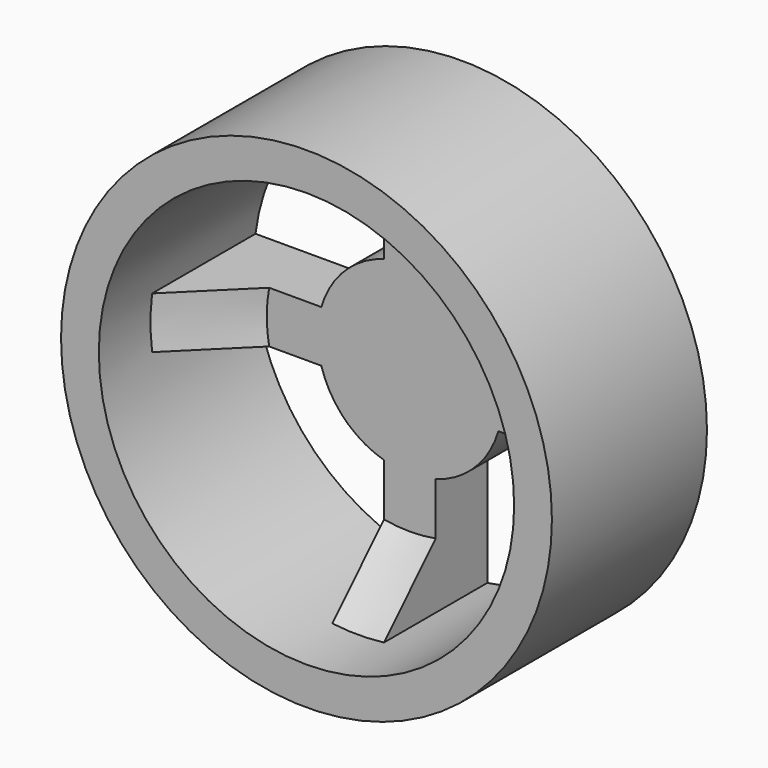
from build123d import *

# Parameters (mm, degrees)
F0_R     = 96.493777
F0_R_2   = 81.643771
F1_DEPTH = 76.2
F2_W     = 80.01
F2_H     = 20.32
F2_W_2   = 20.32
F2_H_2   = 80.01
F3_DEPTH = 25.4
F4_R     = 36.256565
F5_DEPTH = 25.4
F6_SIZE  = 25.4


with BuildPart() as f1:
    # F0 (on Front) → F1 (new body)
    with BuildSketch(Plane.XZ):
        Circle(F0_R)
        Circle(F0_R_2, mode=Mode.SUBTRACT)
    extrude(amount=F1_DEPTH)

    # F2 (on Front) → F3 (join)
    with BuildSketch(Plane.XZ):
        with Locations((-50.165, 0)):
            Rectangle(F2_W, F2_H)
        with Locations((0, -50.165)):
            Rectangle(F2_W_2, F2_H_2)
        with Locations((50.165, 0)):
            Rectangle(F2_W, F2_H)
        with Locations((0, 50.165)):
            Rectangle(F2_W_2, F2_H_2)
    extrude(amount=F3_DEPTH)

    # F4 (on Front) → F5 (join)
    with BuildSketch(Plane.XZ):
        Circle(F4_R)
    extrude(amount=F5_DEPTH)

    # F6
    f6_edges = [f1.edges().sort_by_distance(p)[0] for p in [
        (81.484957, -25.4, 5.089901),
        (0, -25.4, 81.643771),
        (-81.643771, -25.4, 0),
        (0, -25.4, -81.643771),
        (81.484957, -25.4, -5.089901),
    ]]
    chamfer(f6_edges, length=F6_SIZE)


solid = f1.part
